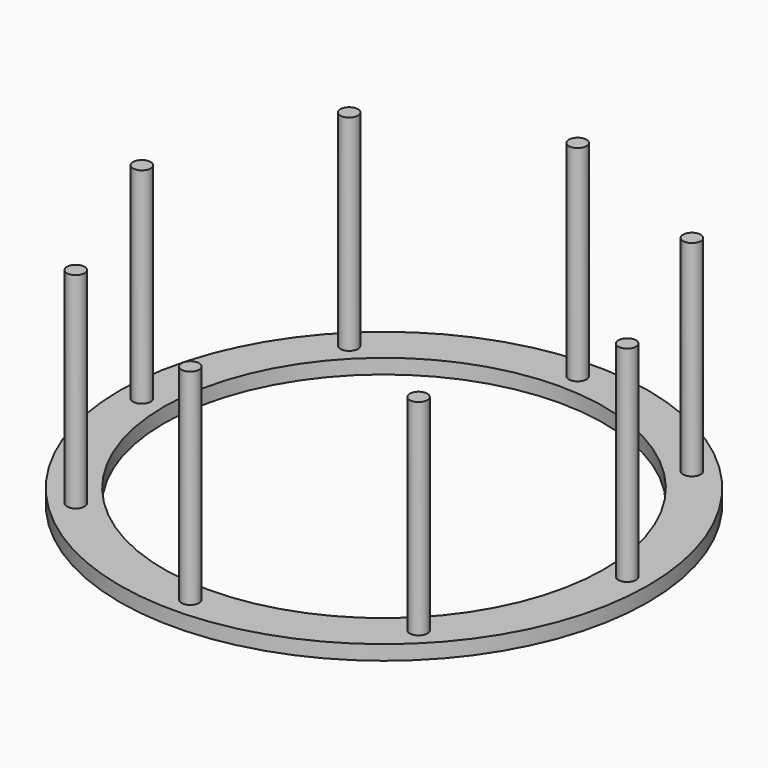
from build123d import *

# Parameters (mm, degrees)
F0_R     = 90
F0_R_2   = 75
F1_DEPTH = 5
F2_R     = 3
F3_DEPTH = 70


with BuildPart() as f1:
    # F0 (on Top) → F1 (new body)
    with BuildSketch(Plane.XY):
        Circle(F0_R)
        Circle(F0_R_2, mode=Mode.SUBTRACT)
    extrude(amount=-F1_DEPTH)

    # F2 (on Top) → F3 (join)
    with BuildSketch(Plane.XY):
        with Locations((0, 82.5)):
            Circle(F2_R)
        with Locations((57.940349, 58.7296)):
            Circle(F2_R)
        with Locations((82.498801, 0.44478)):
            Circle(F2_R)
        with Locations((58.395936, -58.276622)):
            Circle(F2_R)
        with Locations((0, -82.5)):
            Circle(F2_R)
        with Locations((-58.443849, 58.222846)):
            Circle(F2_R)
        with Locations((-82.497332, 0)):
            Circle(F2_R)
        with Locations((-58.53165, -58.143569)):
            Circle(F2_R)
    extrude(amount=F3_DEPTH)


solid = f1.part
